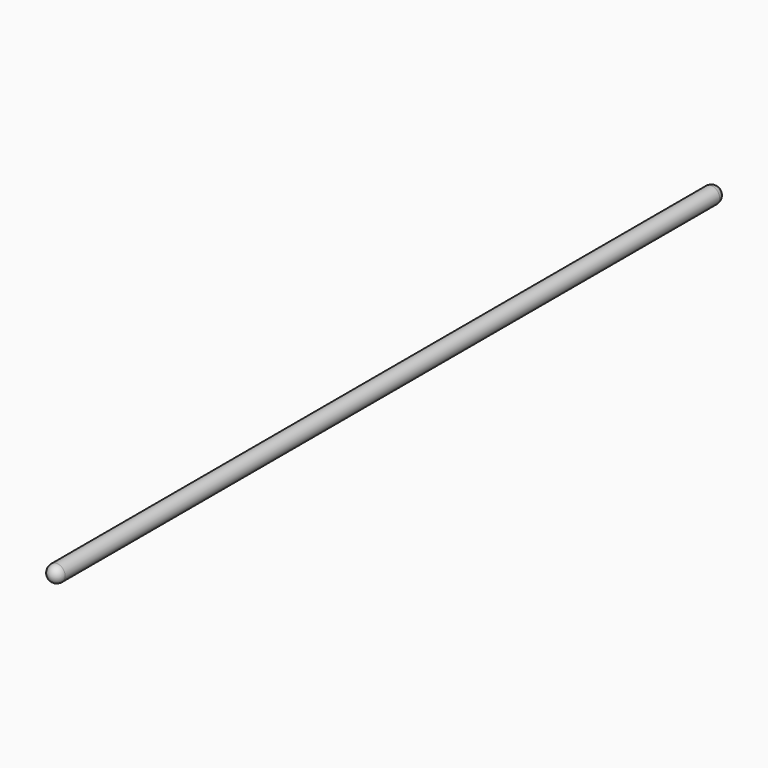
from build123d import *

# Parameters (mm, degrees)
SKETCH_R  = 3
PAD_DEPTH = 300
FILLET_R  = 3


with BuildPart() as part:
    # Sketch → Pad (new body)
    with BuildSketch(Plane.XZ):
        Circle(SKETCH_R)
    extrude(amount=-PAD_DEPTH)

    # Fillet
    fillet_edges = [part.edges().sort_by_distance(p)[0] for p in [
        (-3, 300, 0),
        (-3, 0, 0),
    ]]
    fillet(fillet_edges, radius=FILLET_R)


solid = part.part
